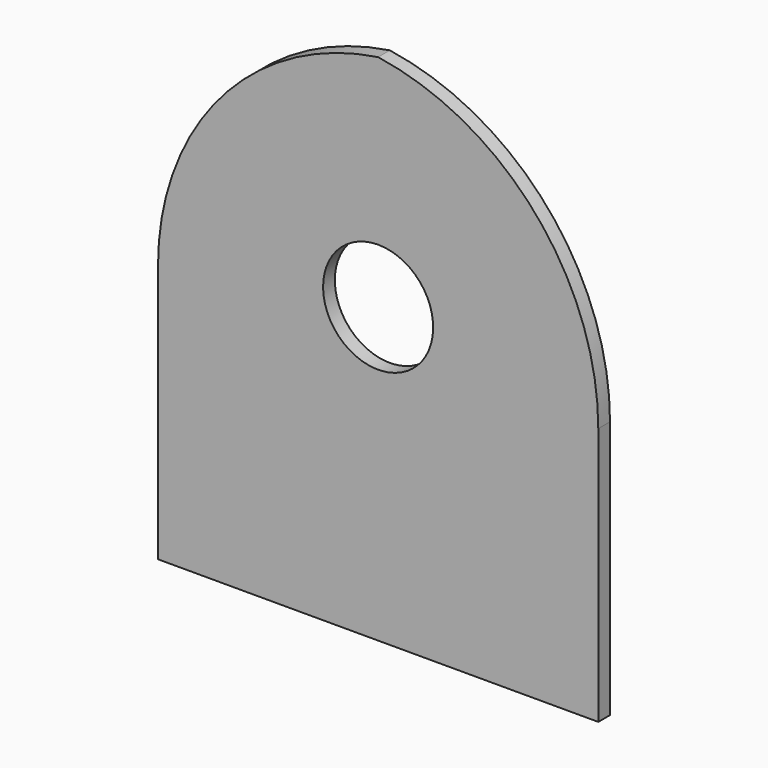
from build123d import *

# Parameters (mm, degrees)
F1_DEPTH = 1.27


with BuildPart() as f1:
    # F0 (on Front) → F1 (new body)
    with BuildSketch(Plane.XZ):
        with BuildLine():
            Line((-19.05, 22.347352), (-19.05, 0))
            Line((-19.05, 0), (0, 0))
            Line((0, 0), (0, 20.6375))
            ThreePointArc((0, 20.6375), (-4.7625, 25.4), (0, 30.1625))
            Line((0, 30.1625), (0, 44.45))
            ThreePointArc((0, 44.45), (-13.630302, 36.936985), (-19.05, 22.347352))
        make_face()
        with BuildLine():
            Line((0, 20.6375), (0, 0))
            Line((0, 0), (19.05, 0))
            Line((19.05, 0), (19.05, 22.347352))
            ThreePointArc((19.05, 22.347352), (13.630302, 36.936985), (0, 44.45))
            Line((0, 44.45), (0, 30.1625))
            ThreePointArc((0, 30.1625), (4.7625, 25.4), (0, 20.6375))
        make_face()
    extrude(amount=F1_DEPTH)


solid = f1.part
